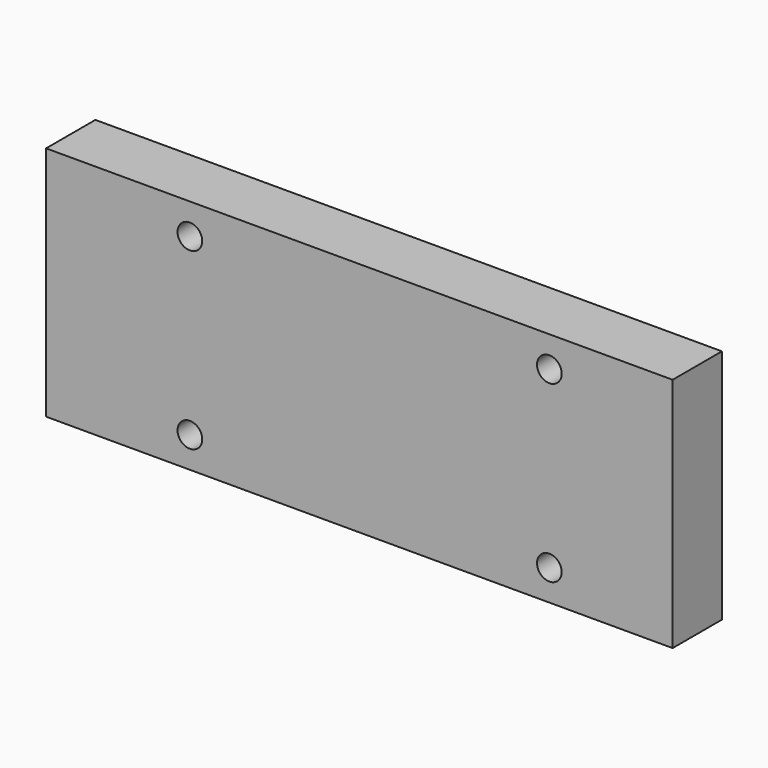
from build123d import *

# Parameters (mm, degrees)
CYLINDER001_R     = 1.2
CYLINDER001_DEPTH = 10
CYLINDER002_R     = 1.2
CYLINDER002_DEPTH = 10
CYLINDER003_R     = 1.2
CYLINDER003_DEPTH = 10
CYLINDER_R        = 1.2
CYLINDER_DEPTH    = 10
BOX002_W          = 61
BOX002_H          = 6
BOX002_DEPTH      = 23


with BuildPart() as m2s001:
    # Cylinder001 → Cylinder001 (new body)
    with BuildSketch(Plane(origin=(14, 0, 20), x_dir=(1, 0, 0), z_dir=(0, -1, 0))):
        Circle(CYLINDER001_R)
    extrude(amount=CYLINDER001_DEPTH)


with BuildPart() as m2s002:
    # Cylinder002 → Cylinder002 (new body)
    with BuildSketch(Plane(origin=(49, 0, 20), x_dir=(1, 0, 0), z_dir=(0, -1, 0))):
        Circle(CYLINDER002_R)
    extrude(amount=CYLINDER002_DEPTH)


with BuildPart() as m2s003:
    # Cylinder003 → Cylinder003 (new body)
    with BuildSketch(Plane(origin=(49, 0, 3), x_dir=(1, 0, 0), z_dir=(0, -1, 0))):
        Circle(CYLINDER003_R)
    extrude(amount=CYLINDER003_DEPTH)


with BuildPart() as obj1:
    # Cylinder → Cylinder (new body)
    with BuildSketch(Plane(origin=(14, 0, 3), x_dir=(1, 0, 0), z_dir=(0, -1, 0))):
        Circle(CYLINDER_R)
    extrude(amount=CYLINDER_DEPTH)

    # Fusion: union m2s001, m2s002, m2s003
    add(m2s001.part)
    add(m2s002.part)
    add(m2s003.part)


with BuildPart() as obj1_1:
    # Fusion placement: moved
    add(obj1.part.moved(Location((0, 6, 0))))


with BuildPart() as e5mini:
    # Box002 → Box002 (new body)
    with BuildSketch(Plane.XY):
        with Locations((30.5, 3)):
            Rectangle(BOX002_W, BOX002_H)
    extrude(amount=BOX002_DEPTH)

    # Cut: cut obj1
    add(obj1_1.part, mode=Mode.SUBTRACT)


with BuildPart() as e5mini_1:
    # Cut placement: moved
    add(e5mini.part.moved(Location((30, 5.7, 15))))


solid = e5mini_1.part
